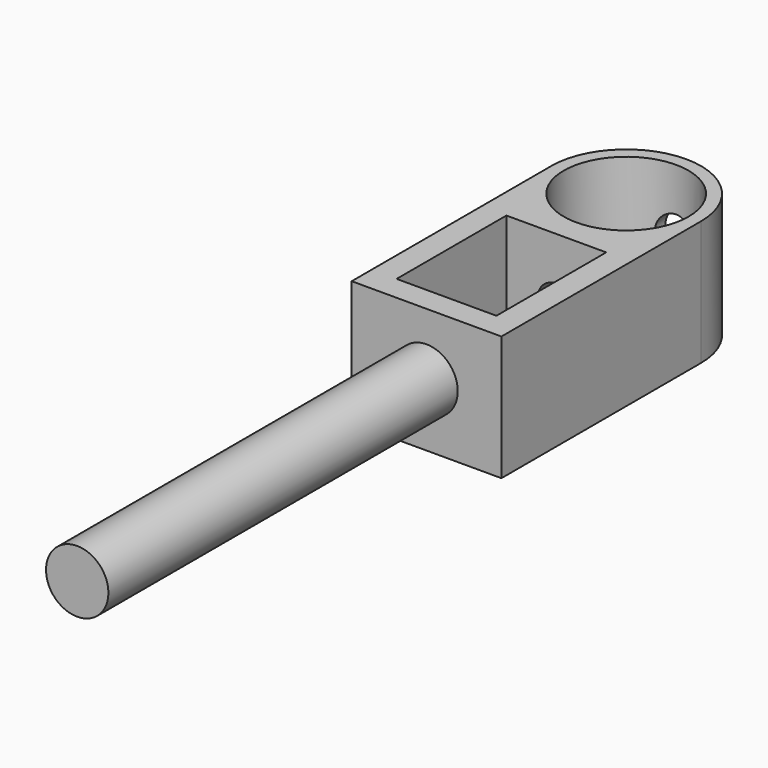
from build123d import *

# Parameters (mm, degrees)
F1_DEPTH = 10
F2_R     = 5
F3_DEPTH = 25
F5_DEPTH = 25
F6_R     = 1.5
F7_DEPTH = 25
F8_R     = 2.5
F9_DEPTH = 35


with BuildPart() as f1:
    # F0 (on Top) → F1 (new body)
    with BuildSketch(Plane.XY):
        with BuildLine():
            ThreePointArc((-6, 0), (0, -6), (6, 0))
            Line((6, 0), (-6, 0))
        make_face()
        with BuildLine():
            Line((-6, 0), (6, 0))
            ThreePointArc((6, 0), (0, 6), (-6, 0))
        make_face()
        with BuildLine():
            Line((6, -20), (6, 0))
            ThreePointArc((6, 0), (0, -6), (-6, 0))
            Line((-6, 0), (-6, -20))
            Line((-6, -20), (6, -20))
        make_face()
    extrude(amount=F1_DEPTH)

    # F2 (on face) → F3 (cut)
    with BuildSketch(Plane.XY.offset(10)):
        Circle(F2_R)
    extrude(amount=-F3_DEPTH, mode=Mode.SUBTRACT)

    # F4 (on face) → F5 (cut)
    with BuildSketch(Plane.XY.offset(10)):
        Polygon((-4, -7), (-4, -18), (4, -18), (4, -7), (0, -7), align=None)
    extrude(amount=-F5_DEPTH, mode=Mode.SUBTRACT)

    # F6 (on face) → F7 (cut)
    with BuildSketch(Plane.XZ.offset(7)):
        with Locations((0, 5)):
            Circle(F6_R)
    extrude(amount=-F7_DEPTH, mode=Mode.SUBTRACT)

    # F8 (on face) → F9 (join)
    with BuildSketch(Plane.XZ.offset(20)):
        with Locations((0, 5)):
            Circle(F8_R)
    extrude(amount=F9_DEPTH)


solid = f1.part
